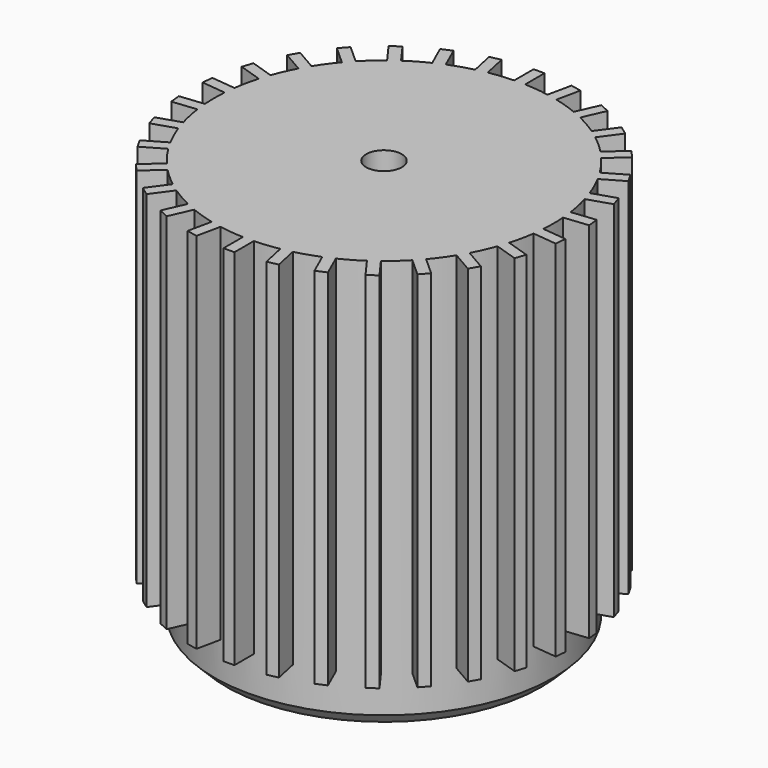
from build123d import *

# Parameters (mm, degrees)
F1_R      = 10.5
F2_DEPTH  = 22.5
F4_DEPTH  = 22.5
F5_COUNT  = 30
F7_R      = 10.5
F8_DEPTH  = 3
F9_SIZE   = 0.75
F10_R     = 4.875
F11_DEPTH = 0.9
F13_R     = 1.1
F14_DEPTH = 37.5


with BuildPart() as f2:
    # F1 (on Top) → F2 (new body)
    with BuildSketch(Plane.XY):
        Circle(F1_R)
    extrude(amount=F2_DEPTH)


with BuildPart() as f4:
    # F3 (on Top) → F4 (new body)
    with BuildSketch(Plane.XY):
        with BuildLine():
            ThreePointArc((-0.3375, 10.4945744911), (0, 10.5), (0.3375, 10.4945744911))
            Line((0.3375, 10.4945744911), (0.3375, 11.9945744911))
            Line((0.3375, 11.9945744911), (-0.3375, 11.9945744911))
            Line((-0.3375, 11.9945744911), (-0.3375, 10.4945744911))
        make_face()
    extrude(amount=F4_DEPTH)


with BuildPart() as f5_1:
    # F5: instance of F4
    add(f4.part.rotate(Axis((0, 0, 22.5), (0, 0, 1)), 1 * 360 / F5_COUNT))


with BuildPart() as f5_2:
    # F5: instance of F4
    add(f4.part.rotate(Axis((0, 0, 22.5), (0, 0, 1)), 2 * 360 / F5_COUNT))


with BuildPart() as f5_3:
    # F5: instance of F4
    add(f4.part.rotate(Axis((0, 0, 22.5), (0, 0, 1)), 3 * 360 / F5_COUNT))


with BuildPart() as f5_4:
    # F5: instance of F4
    add(f4.part.rotate(Axis((0, 0, 22.5), (0, 0, 1)), 4 * 360 / F5_COUNT))


with BuildPart() as f5_5:
    # F5: instance of F4
    add(f4.part.rotate(Axis((0, 0, 22.5), (0, 0, 1)), 5 * 360 / F5_COUNT))


with BuildPart() as f5_6:
    # F5: instance of F4
    add(f4.part.rotate(Axis((0, 0, 22.5), (0, 0, 1)), 6 * 360 / F5_COUNT))


with BuildPart() as f5_7:
    # F5: instance of F4
    add(f4.part.rotate(Axis((0, 0, 22.5), (0, 0, 1)), 7 * 360 / F5_COUNT))


with BuildPart() as f5_8:
    # F5: instance of F4
    add(f4.part.rotate(Axis((0, 0, 22.5), (0, 0, 1)), 8 * 360 / F5_COUNT))


with BuildPart() as f5_9:
    # F5: instance of F4
    add(f4.part.rotate(Axis((0, 0, 22.5), (0, 0, 1)), 9 * 360 / F5_COUNT))


with BuildPart() as f5_10:
    # F5: instance of F4
    add(f4.part.rotate(Axis((0, 0, 22.5), (0, 0, 1)), 10 * 360 / F5_COUNT))


with BuildPart() as f5_11:
    # F5: instance of F4
    add(f4.part.rotate(Axis((0, 0, 22.5), (0, 0, 1)), 11 * 360 / F5_COUNT))


with BuildPart() as f5_12:
    # F5: instance of F4
    add(f4.part.rotate(Axis((0, 0, 22.5), (0, 0, 1)), 12 * 360 / F5_COUNT))


with BuildPart() as f5_13:
    # F5: instance of F4
    add(f4.part.rotate(Axis((0, 0, 22.5), (0, 0, 1)), 13 * 360 / F5_COUNT))


with BuildPart() as f5_14:
    # F5: instance of F4
    add(f4.part.rotate(Axis((0, 0, 22.5), (0, 0, 1)), 14 * 360 / F5_COUNT))


with BuildPart() as f5_15:
    # F5: instance of F4
    add(f4.part.rotate(Axis((0, 0, 22.5), (0, 0, 1)), 15 * 360 / F5_COUNT))


with BuildPart() as f5_16:
    # F5: instance of F4
    add(f4.part.rotate(Axis((0, 0, 22.5), (0, 0, 1)), 16 * 360 / F5_COUNT))


with BuildPart() as f5_17:
    # F5: instance of F4
    add(f4.part.rotate(Axis((0, 0, 22.5), (0, 0, 1)), 17 * 360 / F5_COUNT))


with BuildPart() as f5_18:
    # F5: instance of F4
    add(f4.part.rotate(Axis((0, 0, 22.5), (0, 0, 1)), 18 * 360 / F5_COUNT))


with BuildPart() as f5_19:
    # F5: instance of F4
    add(f4.part.rotate(Axis((0, 0, 22.5), (0, 0, 1)), 19 * 360 / F5_COUNT))


with BuildPart() as f5_20:
    # F5: instance of F4
    add(f4.part.rotate(Axis((0, 0, 22.5), (0, 0, 1)), 20 * 360 / F5_COUNT))


with BuildPart() as f5_21:
    # F5: instance of F4
    add(f4.part.rotate(Axis((0, 0, 22.5), (0, 0, 1)), 21 * 360 / F5_COUNT))


with BuildPart() as f5_22:
    # F5: instance of F4
    add(f4.part.rotate(Axis((0, 0, 22.5), (0, 0, 1)), 22 * 360 / F5_COUNT))


with BuildPart() as f5_23:
    # F5: instance of F4
    add(f4.part.rotate(Axis((0, 0, 22.5), (0, 0, 1)), 23 * 360 / F5_COUNT))


with BuildPart() as f5_24:
    # F5: instance of F4
    add(f4.part.rotate(Axis((0, 0, 22.5), (0, 0, 1)), 24 * 360 / F5_COUNT))


with BuildPart() as f5_25:
    # F5: instance of F4
    add(f4.part.rotate(Axis((0, 0, 22.5), (0, 0, 1)), 25 * 360 / F5_COUNT))


with BuildPart() as f5_26:
    # F5: instance of F4
    add(f4.part.rotate(Axis((0, 0, 22.5), (0, 0, 1)), 26 * 360 / F5_COUNT))


with BuildPart() as f5_27:
    # F5: instance of F4
    add(f4.part.rotate(Axis((0, 0, 22.5), (0, 0, 1)), 27 * 360 / F5_COUNT))


with BuildPart() as f5_28:
    # F5: instance of F4
    add(f4.part.rotate(Axis((0, 0, 22.5), (0, 0, 1)), 28 * 360 / F5_COUNT))


with BuildPart() as f5_29:
    # F5: instance of F4
    add(f4.part.rotate(Axis((0, 0, 22.5), (0, 0, 1)), 29 * 360 / F5_COUNT))


with BuildPart() as f5_4_1:
    add(f5_4.part)

    # F6: union F5_2, F5_11, F5_1, F5_3, F5_6, F4, F5_13, F5_8, F5_7, F5_5, F5_9, F2, F5_10, F5_14, F5_12, F5_18, F5_17, F5_16, F5_15, F5_19, F5_20, F5_21, F5_22, F5_23, F5_24, F5_25, F5_26, F5_27, F5_28, F5_29
    add(f5_2.part)
    add(f5_11.part)
    add(f5_1.part)
    add(f5_3.part)
    add(f5_6.part)
    add(f4.part)
    add(f5_13.part)
    add(f5_8.part)
    add(f5_7.part)
    add(f5_5.part)
    add(f5_9.part)
    add(f2.part)
    add(f5_10.part)
    add(f5_14.part)
    add(f5_12.part)
    add(f5_18.part)
    add(f5_17.part)
    add(f5_16.part)
    add(f5_15.part)
    add(f5_19.part)
    add(f5_20.part)
    add(f5_21.part)
    add(f5_22.part)
    add(f5_23.part)
    add(f5_24.part)
    add(f5_25.part)
    add(f5_26.part)
    add(f5_27.part)
    add(f5_28.part)
    add(f5_29.part)

    # F7 (on Top) → F8 (join)
    with BuildSketch(Plane.XY):
        Circle(F7_R)
    extrude(amount=-F8_DEPTH)

    # F9
    f9_edges = [f5_4_1.edges().sort_by_distance(p)[0] for p in [
        (-10.5, 0, -3),
    ]]
    chamfer(f9_edges, length=F9_SIZE)

    # F10 (on face) → F11 (cut)
    with BuildSketch(Plane(origin=(0, 0, -3), x_dir=(1, 0, 0), z_dir=(0, 0, -1))):
        Circle(F10_R)
    extrude(amount=-F11_DEPTH, mode=Mode.SUBTRACT)

    # F13 (on face) → F14 (cut, symmetric)
    with BuildSketch(Plane.XY.offset(22.5)):
        Circle(F13_R)
    extrude(amount=F14_DEPTH, both=True, mode=Mode.SUBTRACT)


solid = f5_4_1.part
